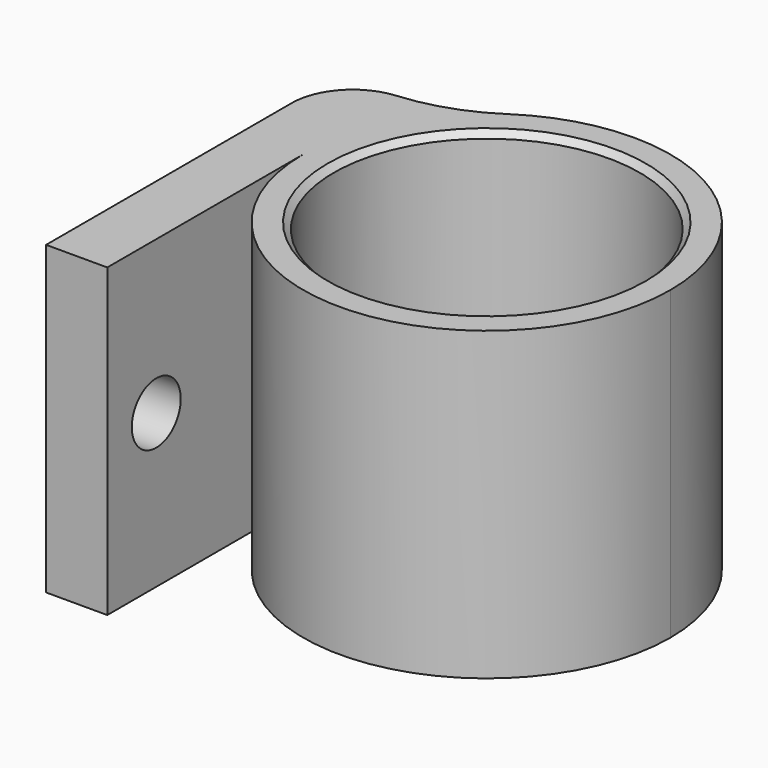
from build123d import *

# Parameters (mm, degrees)
F0_R     = 12.5
F0_W     = 5
F0_H     = 20
F1_DEPTH = 25
F2_R     = 15
F3_R     = 5
F4_R     = 2.5
F5_DEPTH = 5
F6_SIZE  = 0.5


with BuildPart() as f1:
    # F0 (on Top) → F1 (new body)
    with BuildSketch(Plane.XY):
        with BuildLine():
            ThreePointArc((-15, 0), (0, -15), (15, 0))
            ThreePointArc((15, 0), (5.352331, 14.012585), (-11.18034, 10))
            ThreePointArc((-11.18034, 10), (-14.012585, 5.352331), (-15, 0))
        make_face()
        Circle(F0_R, mode=Mode.SUBTRACT)
        with BuildLine():
            ThreePointArc((-15, 0), (-14.012585, 5.352331), (-11.18034, 10))
            Line((-11.18034, 10), (-20, 10))
            Line((-20, 10), (-20, 0))
            Line((-20, 0), (-15, 0))
        make_face()
        with Locations((-17.5, -10)):
            Rectangle(F0_W, F0_H)
    extrude(amount=F1_DEPTH)

    # F2
    f2_edges = [f1.edges().sort_by_distance(p)[0] for p in [
        (-11.18034, 10, 12.5),
    ]]
    fillet(f2_edges, radius=F2_R)

    # F3
    f3_edges = [f1.edges().sort_by_distance(p)[0] for p in [
        (-20, 10, 12.5),
    ]]
    fillet(f3_edges, radius=F3_R)

    # F4 (on face) → F5 (cut)
    with BuildSketch(Plane(origin=(-20, 0, 0), x_dir=(0, -1, 0), z_dir=(-1, 0, 0))):
        with Locations((15, 12.5)):
            Circle(F4_R)
    extrude(amount=-F5_DEPTH, mode=Mode.SUBTRACT)

    # F6
    f6_edges = [f1.edges().sort_by_distance(p)[0] for p in [
        (-12.5, 0, 0),
        (-12.5, 0, 25),
    ]]
    chamfer(f6_edges, length=F6_SIZE)


solid = f1.part
